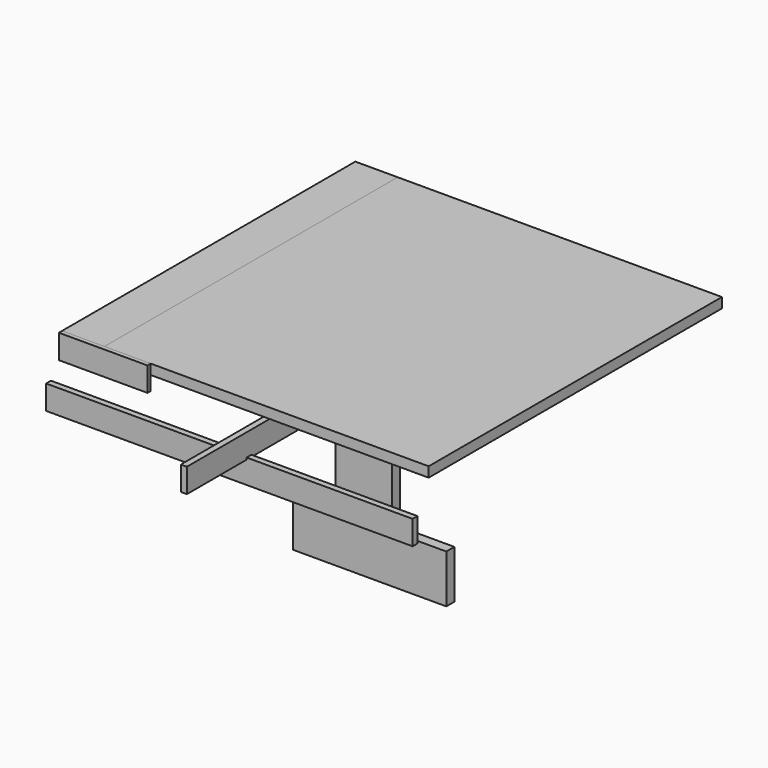
from build123d import *

# Parameters (mm, degrees)
F0_W      = 1155.7
F0_H      = 1155.7
F1_DEPTH  = 31.75
F4_W      = 177.8
F4_H      = 711.2
F5_DEPTH  = 31.75
F6_W      = 133.35
F6_H      = 1155.7
F7_DEPTH  = 31.75
F3_W      = 279.4
F3_H      = 76.2
F8_DEPTH  = 12.7
F2_W      = 208.7145904064
F2_H      = 31.75
F9_DEPTH  = 19.05
F2_W_2    = 1155.7
F2_H_2    = 76.2
F11_W     = 1219.2
F11_H     = 76.2
F12_DEPTH = 19.05
F13_W     = 482.6
F13_H     = 152.4
F14_DEPTH = 31.75


with BuildPart() as f1:
    # F0 (on Top) → F1 (new body)
    with BuildSketch(Plane.XY):
        Rectangle(F0_W, F0_H)
    extrude(amount=F1_DEPTH)


with BuildPart() as f5:
    # F4 (on Front) → F5 (new body)
    with BuildSketch(Plane.XZ):
        with Locations((-63.575723362, -347.2077669195)):
            Rectangle(F4_W, F4_H)
    extrude(amount=F5_DEPTH)


with BuildPart() as f7:
    # F6 (on face) → F7 (new body)
    with BuildSketch(Plane.XY.offset(31.75)):
        with Locations((-511.175, 0)):
            Rectangle(F6_W, F6_H)
    extrude(amount=-F7_DEPTH)


with BuildPart() as f8:
    # F3 (on face) → F8 (new body)
    with BuildSketch(Plane.XZ.offset(577.85)):
        with Locations((-438.15, -6.35)):
            Rectangle(F3_W, F3_H)
    extrude(amount=F8_DEPTH)


with BuildPart() as f9:
    # F2 (on face) → F9 (new body)
    with BuildSketch(Plane.XZ.offset(577.85)):
        with Locations((473.4927047968, 15.875)):
            Rectangle(F2_W, F2_H)
    extrude(amount=F9_DEPTH)


with BuildPart() as f9b:
    # F2 (on face) → F9, piece 2 (new body)
    with BuildSketch(Plane.XZ.offset(577.85)):
        with Locations((-35.2438529968, -156.0455602646)):
            Rectangle(F2_W_2, F2_H_2)
        with Locations((-35.2438529968, -156.0455602646)):
            Rectangle(F2_W_2, F2_H_2)
    extrude(amount=F9_DEPTH)


with BuildPart() as f12:
    # F11 (on Right) → F12 (new body)
    with BuildSketch(Plane.YZ):
        with Locations((-222.6182788968, -85.9602801323)):
            Rectangle(F11_W, F11_H)
    extrude(amount=F12_DEPTH)


with BuildPart() as f14:
    # F13 (on Front) → F14 (new body)
    with BuildSketch(Plane.XZ):
        with Locations((-44.7499839599, -627.0127509117)):
            Rectangle(F13_W, F13_H)
    extrude(amount=F14_DEPTH)


solid = Compound([f1.part, f5.part, f7.part, f8.part, f9b.part, f12.part, f14.part])
